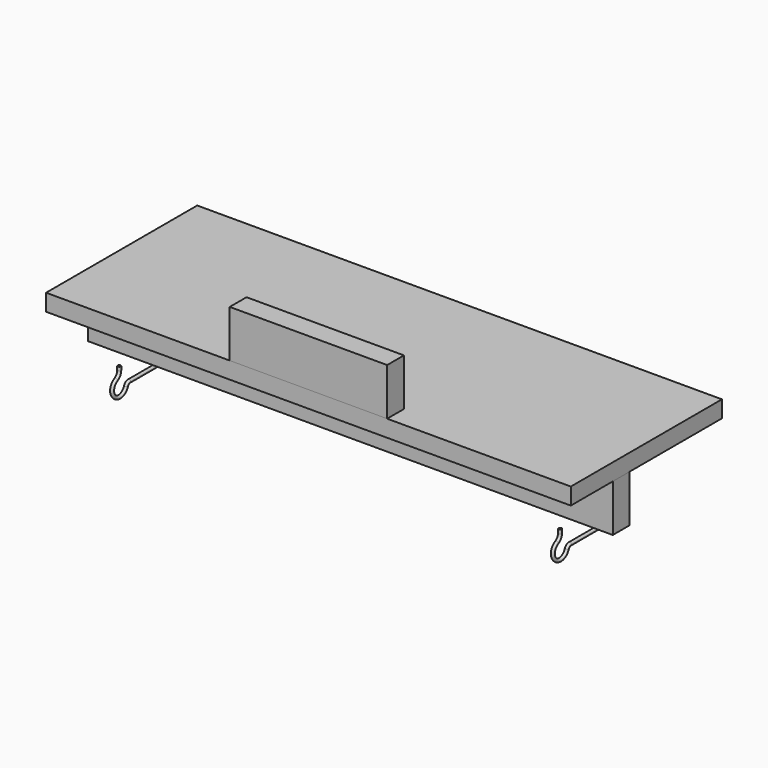
from build123d import *

# Parameters (mm, degrees)
F0_W          = 180
F0_H          = 16
F1_DEPTH      = 250
F2_W          = 20
F2_H          = 45
F3_DEPTH      = 250
F3_DEPTH_BACK = 250
F5_R          = 2
F6_DEPTH      = 20
F9_R          = 1.5
F12_W         = 20
F12_H         = 45
F13_DEPTH     = 75


with BuildPart() as f1:
    # F0 (on Right) → F1 (new body, symmetric)
    with BuildSketch(Plane.YZ):
        with Locations((-90, -8)):
            Rectangle(F0_W, F0_H)
    extrude(amount=F1_DEPTH, both=True)


with BuildPart() as f3:
    # F2 (on Right) → F3 (new body, two sides)
    with BuildSketch(Plane.YZ) as f3_sk:
        with Locations((-120, -38.5)):
            Rectangle(F2_W, F2_H)
    extrude(amount=F3_DEPTH)
    extrude(f3_sk.sketch, amount=-F3_DEPTH_BACK)

    # F5 (on face) → F6 (cut, through all)
    with BuildSketch(Plane.XZ.offset(130)):
        with Locations((210, -46)):
            Circle(F5_R)
        with Locations((-210, -46)):
            Circle(F5_R)
    extrude(amount=-F6_DEPTH, mode=Mode.SUBTRACT)


with BuildPart() as f10:
    # F10: sweep along a path in F7
    with BuildLine(Plane.YZ.offset(210)) as f10_path:
        Line((-91, -81), (-131, -81))
        ThreePointArc((-131, -81), (-133.3323807579, -81.7503846381), (-134.7896701703, -83.72))
        ThreePointArc((-134.7896701703, -83.72), (-148.4088970397, -87.423991374), (-146.6814289597, -73.4161811722))
        ThreePointArc((-146.6814289597, -73.4161811722), (-143.8791200227, -70.8361278807), (-142.8427192823, -67.1706833141))
        Line((-142.8427192823, -67.1706833141), (-142.8427192823, -63.5))
    # F9 (on line) → F10 (sweep)
    with BuildSketch(Plane.XY.offset(-63.5)):
        with Locations((210, -142.8427192823)):
            Circle(F9_R)
    sweep(path=f10_path.line)


with BuildPart() as f11_1:
    # F11: instance of F10
    add(f10.part.mirror(Plane.YZ))


with BuildPart() as f13:
    # F12 (on Right) → F13 (new body, symmetric)
    with BuildSketch(Plane.YZ):
        with Locations((-170, 22.5)):
            Rectangle(F12_W, F12_H)
    extrude(amount=F13_DEPTH, both=True)


solid = Compound([f1.part, f3.part, f10.part, f11_1.part, f13.part])
